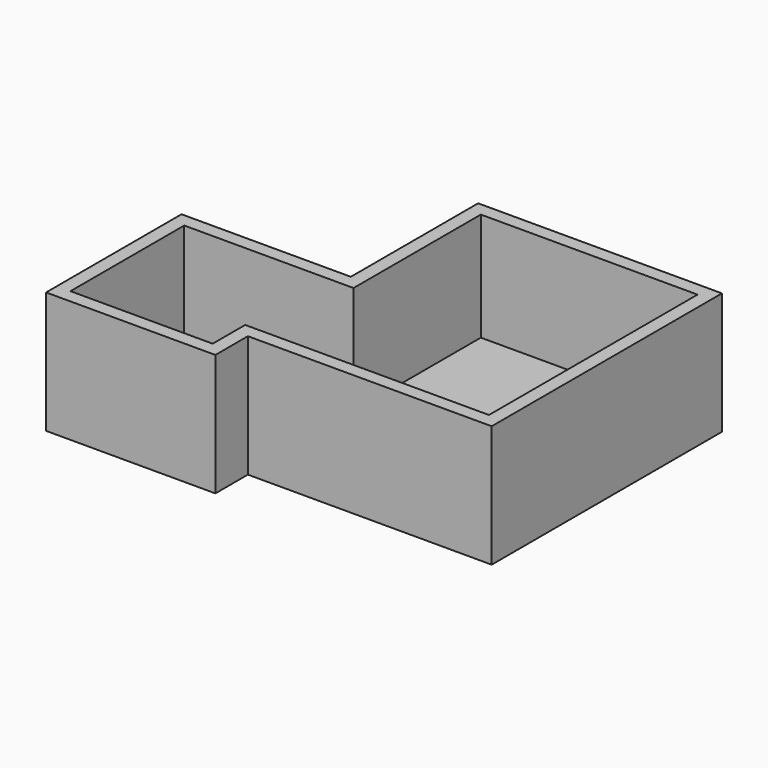
from build123d import *

# Parameters (mm, degrees)
F1_DEPTH = 3600
F2_T     = -400


with BuildPart() as f1:
    # F0 (on Top) → F1 (new body)
    with BuildSketch(Plane.XY):
        Polygon((2500, 2500), (-2500, 2500), (-2500, -2500), (2500, -2500), (2500, -1300), (9700, -1300), (9700, 7200), (2500, 7200), align=None)
    extrude(amount=F1_DEPTH)

    # F2
    f2_openings = [f1.faces().sort_by_distance(p)[0] for p in [
        (4330.858469, 2094.431555, 3600),
    ]]
    offset(amount=F2_T, openings=f2_openings, kind=Kind.INTERSECTION)


solid = f1.part
